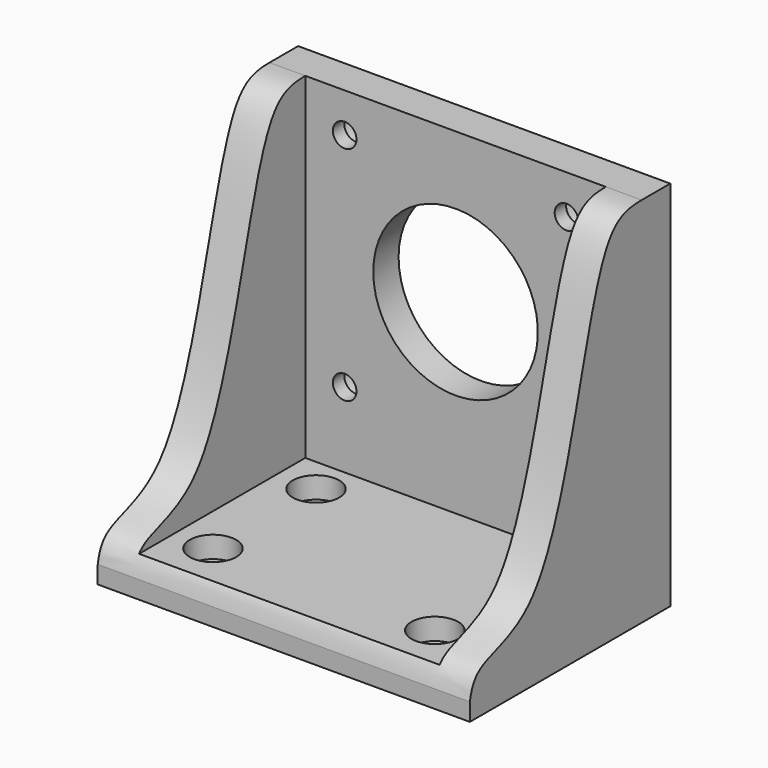
from build123d import *

# Parameters (mm, degrees)
F0_W           = 26
F0_H           = 42
F0_H_2         = 10
F1_DEPTH       = 35
F2_T           = -5
F3_D           = 3.3
F3_CBORE_D     = 6.5
F3_CBORE_DEPTH = 3
F5_D           = 23
F5_CSINK_D     = 25
F5_CSINK_ANGLE = 120
F7_DEPTH       = 52.001
F9_D           = 3.3
F9_CBORE_D     = 6.5
F9_CBORE_DEPTH = 3


with BuildPart() as f1:
    # F0 (on Front) → F1 (new body)
    with BuildSketch(Plane.XZ):
        with Locations((-13, 0)):
            Rectangle(F0_W, F0_H)
        with Locations((-13, -26)):
            Rectangle(F0_W, F0_H_2)
    extrude(amount=F1_DEPTH)

    # F2
    f2_openings = [f1.faces().sort_by_distance(p)[0] for p in [
        (-13, -17.5, 21),
        (0, -17.5, -5),
        (-13, -35, -5),
    ]]
    offset(amount=F2_T, openings=f2_openings)

    # F3 (through all)
    with Locations(Plane(origin=(0, 0, 0), x_dir=(1, 0, 0), z_dir=(0, 1, 0))):
        with Locations((-15.5, -15.5), (-15.5, 15.5)):
            CounterBoreHole(F3_D / 2, F3_CBORE_D / 2, F3_CBORE_DEPTH)

    # F4: F1 across plane


with BuildPart() as f1_1:
    add(f1.part)
    add(f1.part.mirror(Plane.YZ))

    # F5 (through all)
    with Locations(Plane(origin=(0, 0, 0), x_dir=(1, 0, 0), z_dir=(0, 1, 0))):
        with Locations((0, 0)):
            CounterSinkHole(F5_D / 2, F5_CSINK_D / 2, counter_sink_angle=F5_CSINK_ANGLE)

    # F6 (on face) → F7 (cut, through all)
    with BuildSketch(Plane(origin=(-26, 0, 0), x_dir=(0, -1, 0), z_dir=(-1, 0, 0))):
        with BuildLine():
            Line((35, 21), (5, 21))
            add(Edge.make_bspline(
                [(5, 21), (7.7449056049, 21), (13.9513526434, 19.4768436818), (19.2408397363, -24.5274589267), (33.5123126237, -23.6911051001), (34.8205749502, -27.4143324053), (35, -28.5263849619)],
                knots=[0, 0, 0, 0, 0.1819465478, 0.6072641204, 0.8324248321, 0.9192670122, 0.9192670122, 0.9192670122, 0.9192670122], degree=3))
            Line((35, -28.5263849619), (35, 21))
        make_face()
    extrude(amount=-F7_DEPTH, mode=Mode.SUBTRACT)

    # F9 (through all)
    with Locations(Plane.XY.offset(-26)):
        with Locations((-15.5, -10), (15.5, -10), (15.5, -28), (-15.5, -28)):
            CounterBoreHole(F9_D / 2, F9_CBORE_D / 2, F9_CBORE_DEPTH)


solid = f1_1.part
